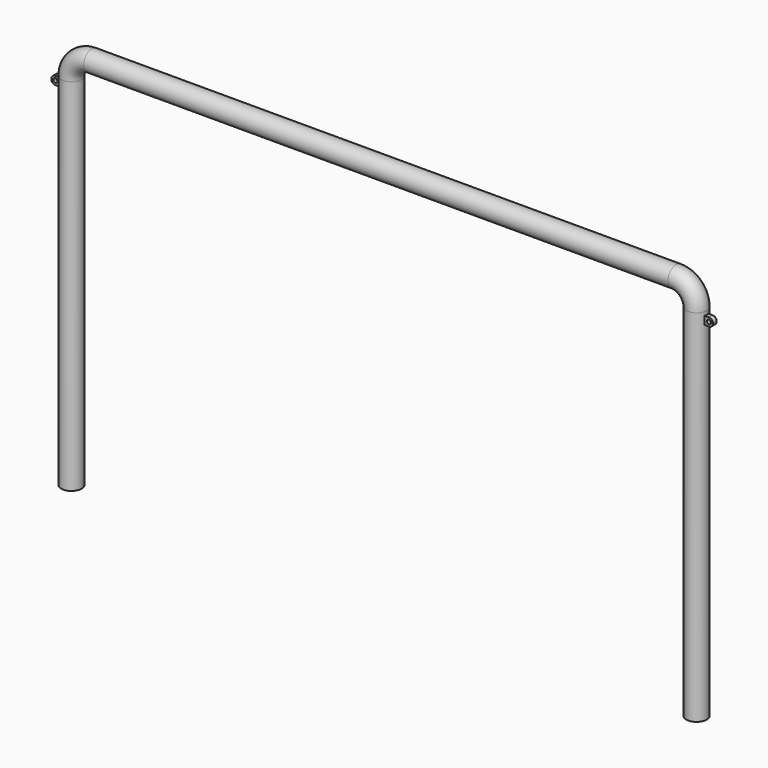
from build123d import *

# Parameters (mm, degrees)
F0_R          = 37.5
F3_R          = 7.5
F4_DEPTH      = 8.33
F4_DEPTH_BACK = 8.33


with BuildPart() as f2:
    # F2: sweep along a path in F1
    with BuildLine(Plane.XZ) as f2_path:
        Line((-1150, 0), (-1150, 1325))
        ThreePointArc((-1150, 1325), (-1128.033008589, 1378.033008589), (-1075, 1400))
        Line((-1075, 1400), (1075, 1400))
        ThreePointArc((1075, 1400), (1128.033008589, 1378.033008589), (1150, 1325))
        Line((1150, 1325), (1150, 0))
    # F0 (on Top) → F2 (sweep)
    with BuildSketch(Plane.XY):
        with Locations((1150, 0)):
            Circle(F0_R)
    sweep(path=f2_path.line)

    # F3 (on Front) → F4 (join, two sides)
    with BuildSketch(Plane.XZ) as f4_sk:
        with BuildLine():
            Line((1202.5, 1311.5), (1150, 1311.5))
            Line((1150, 1311.5), (1150, 1281.5))
            Line((1150, 1281.5), (1202.5, 1281.5))
            ThreePointArc((1202.5, 1281.5), (1213.1066017178, 1285.8933982822), (1217.5, 1296.5))
            ThreePointArc((1217.5, 1296.5), (1213.1066017178, 1307.1066017178), (1202.5, 1311.5))
        make_face()
        with Locations((1202.5, 1296.5)):
            Circle(F3_R, mode=Mode.SUBTRACT)
        with BuildLine():
            Line((-1150, 1281.5), (-1150, 1311.5))
            Line((-1150, 1311.5), (-1202.5, 1311.5))
            ThreePointArc((-1202.5, 1311.5), (-1213.1066017178, 1307.1066017178), (-1217.5, 1296.5))
            ThreePointArc((-1217.5, 1296.5), (-1213.1066017178, 1285.8933982822), (-1202.5, 1281.5))
            Line((-1202.5, 1281.5), (-1150, 1281.5))
        make_face()
        with Locations((-1202.5, 1296.5)):
            Circle(F3_R, mode=Mode.SUBTRACT)
    extrude(amount=F4_DEPTH)
    extrude(f4_sk.sketch, amount=-F4_DEPTH_BACK)


solid = f2.part
